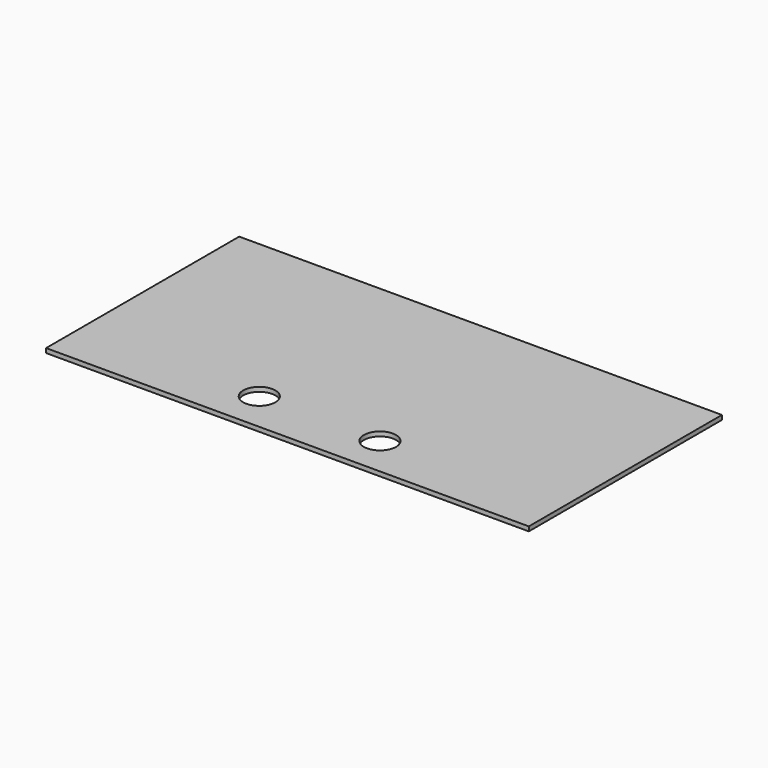
from build123d import *

# Parameters (mm, degrees)
CYLINDER001_R     = 4
CYLINDER001_DEPTH = 1.1
CYLINDER_R        = 4
CYLINDER_DEPTH    = 1.1
BOX_W             = 120
BOX_H             = 60
BOX_DEPTH         = 1.1


with BuildPart() as cylinder001:
    # Cylinder001 → Cylinder001 (new body)
    with BuildSketch(Plane(origin=(75, 10, 0), x_dir=(1, 0, 0), z_dir=(0, 0, 1))):
        Circle(CYLINDER001_R)
    extrude(amount=CYLINDER001_DEPTH)


with BuildPart() as cylinder:
    # Cylinder → Cylinder (new body)
    with BuildSketch(Plane(origin=(45, 10, 0), x_dir=(1, 0, 0), z_dir=(0, 0, 1))):
        Circle(CYLINDER_R)
    extrude(amount=CYLINDER_DEPTH)


with BuildPart() as cut001:
    # Box → Box (new body)
    with BuildSketch(Plane.XY):
        with Locations((60, 30)):
            Rectangle(BOX_W, BOX_H)
    extrude(amount=BOX_DEPTH)

    # Cut: cut Cylinder
    add(cylinder.part, mode=Mode.SUBTRACT)

    # Cut001: cut Cylinder001
    add(cylinder001.part, mode=Mode.SUBTRACT)


solid = cut001.part
